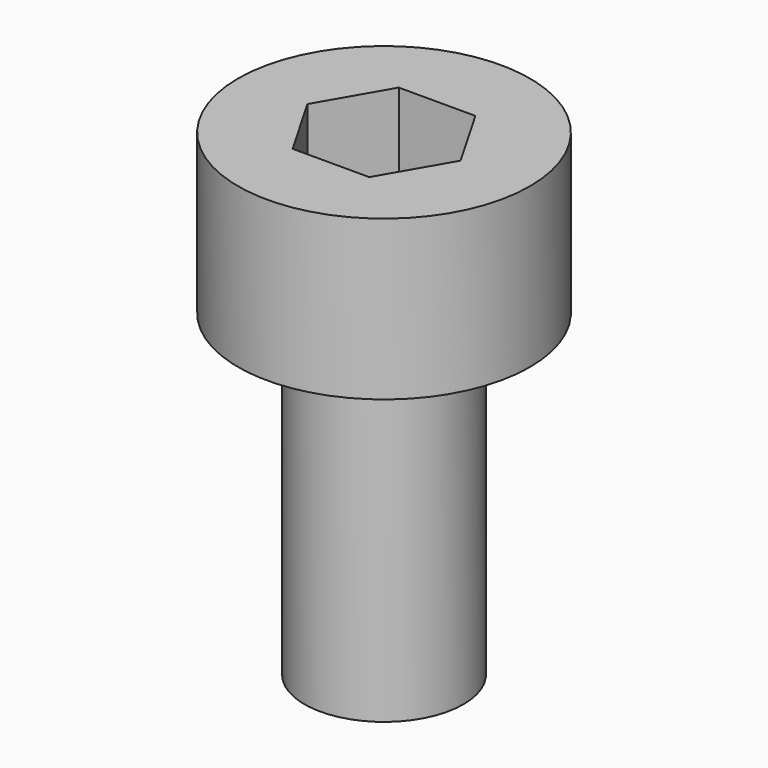
from build123d import *

# Parameters (mm, degrees)
SKETCH046_R     = 2.75
PAD023_DEPTH    = 3
SKETCH044_R     = 1.5
PAD022_DEPTH    = 6
POCKET021_DEPTH = 4


with BuildPart() as part:
    # Sketch046 → Pad023 (new body)
    with BuildSketch(Plane.XY):
        Circle(SKETCH046_R)
    extrude(amount=PAD023_DEPTH)

    # Sketch044 (on Face2 of Pad023) → Pad022 (join)
    with BuildSketch(Plane(origin=(0, 0, 0), x_dir=(1, 0, 0), z_dir=(0, 0, -1))):
        Circle(SKETCH044_R)
    extrude(amount=PAD022_DEPTH)

    # Sketch045 (on DatumPlane) → Pocket021 (cut)
    with BuildSketch(Plane.XY.offset(3)):
        Polygon((0.721688, -1.25), (1.443376, 0), (0.721688, 1.25), (-0.721688, 1.25), (-1.443376, 0), (-0.721688, -1.25), align=None)
    extrude(amount=-POCKET021_DEPTH, mode=Mode.SUBTRACT)


with BuildPart() as part_1:
    # Body012 placement: moved
    add(part.part.moved(Location((-71.22, -23.18, 10.89))))


solid = part_1.part
